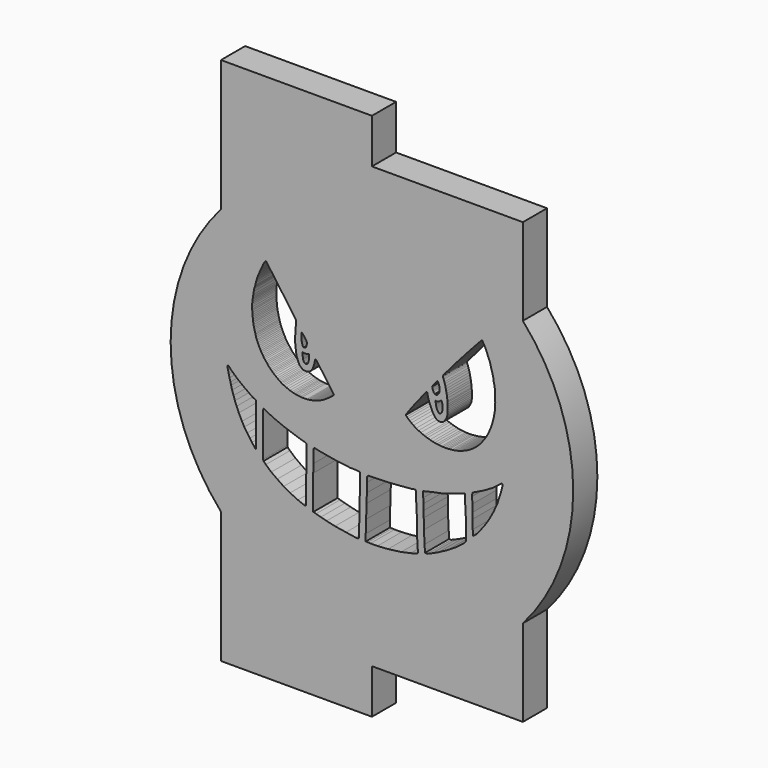
from build123d import *

# Parameters (mm, degrees)
F1_DEPTH = 2.1
F3_DEPTH = 25
F5_DEPTH = 25
F7_DEPTH = 25


with BuildPart() as f1:
    # F0 (on Front) → F1 (new body)
    with BuildSketch(Plane.XZ):
        with BuildLine():
            Line((-10.5, 18.4), (-10.5, 9.26013))
            ThreePointArc((-10.5, 9.26013), (-14, 0), (-10.5, -9.26013))
            Line((-10.5, -9.26013), (-10.5, -18.4))
            Line((-10.5, -18.4), (0, -18.4))
            Line((0, -18.4), (0, -15.3))
            Line((0, -15.3), (10.5, -15.3))
            Line((10.5, -15.3), (10.5, -9.26013))
            ThreePointArc((10.5, -9.26013), (14, 0), (10.5, 9.26013))
            Line((10.5, 9.26013), (10.5, 15.3))
            Line((10.5, 15.3), (0, 15.3))
            Line((0, 15.3), (0, 18.4))
            Line((0, 18.4), (-10.5, 18.4))
        make_face()
        with BuildLine():
            Line((-10.5, 18.4), (-10.5, 9.26013))
            ThreePointArc((-10.5, 9.26013), (-14, 0), (-10.5, -9.26013))
            Line((-10.5, -9.26013), (-10.5, -18.4))
            Line((-10.5, -18.4), (0, -18.4))
            Line((0, -18.4), (0, -15.3))
            Line((0, -15.3), (10.5, -15.3))
            Line((10.5, -15.3), (10.5, -9.26013))
            ThreePointArc((10.5, -9.26013), (14, 0), (10.5, 9.26013))
            Line((10.5, 9.26013), (10.5, 15.3))
            Line((10.5, 15.3), (0, 15.3))
            Line((0, 15.3), (0, 18.4))
            Line((0, 18.4), (-10.5, 18.4))
        make_face()
    extrude(amount=F1_DEPTH)

    # F2 (on Front) → F3 (cut)
    with BuildSketch(Plane.XZ):
        Polygon((-7.075218, 6.70665), (-7.313711, 7.040135), (-7.324723, 7.057937), (-7.339589, 7.069372), (-7.353541, 7.084718), (-7.366258, 7.096204), (-7.378652, 7.100064), (-7.394696, 7.100064), (-7.406554, 7.093089), (-7.424545, 7.072212), (-7.449802, 7.039377), (-7.49613, 6.969279), (-7.523741, 6.921493), (-7.565606, 6.849039), (-7.592798, 6.776404), (-7.646277, 6.650064), (-7.698825, 6.543424), (-7.742072, 6.452045), (-7.765789, 6.403915), (-7.799759, 6.33347), (-7.831358, 6.249059), (-7.883785, 6.139934), (-7.930355, 6.015533), (-7.972055, 5.904145), (-8.002484, 5.806453), (-8.037133, 5.695209), (-8.078288, 5.543144), (-8.109894, 5.396076), (-8.145917, 5.280422), (-8.186407, 5.150427), (-8.219193, 4.971157), (-8.249187, 4.768869), (-8.270811, 4.634244), (-8.287552, 4.531007), (-8.302201, 4.436141), (-8.313362, 4.332207), (-8.325917, 4.209439), (-8.325917, 4.117363), (-8.325219, 3.989712), (-8.323823, 3.861364), (-8.323823, 3.765103), (-8.316151, 3.645125), (-8.308057, 3.521007), (-8.297317, 3.420516), (-8.287551, 3.329137), (-8.277785, 3.229389), (-8.264531, 3.126152), (-8.252673, 3.035471), (-8.234521, 2.920386), (-8.212215, 2.830393), (-8.191987, 2.74878), (-8.17106, 2.653914), (-8.144554, 2.560443), (-8.117349, 2.462787), (-8.100607, 2.383267), (-8.076891, 2.294679), (-8.047594, 2.194232), (-8.013816, 2.089157), (-7.982722, 2.035192), (-7.94645, 1.938234), (-7.907388, 1.849645), (-7.863442, 1.761057), (-7.822287, 1.680142), (-7.776947, 1.593646), (-7.731606, 1.508546), (-7.693241, 1.430421), (-7.646506, 1.348111), (-7.592097, 1.268591), (-7.543967, 1.198139), (-7.496534, 1.125594), (-7.438637, 1.057235), (-7.369128, 0.975546), (-7.318085, 0.904086), (-7.267042, 0.832625), (-7.209454, 0.761203), (-7.153954, 0.705059), (-7.093256, 0.643654), (-7.019414, 0.568953), (-6.959425, 0.508267), (-6.905016, 0.458044), (-6.845027, 0.400147), (-6.768297, 0.333881), (-6.667169, 0.263548), (-6.584006, 0.199576), (-6.507416, 0.140661), (-6.434871, 0.084857), (-6.360931, 0.033937), (-6.305825, 0), (-6.244441, -0.035818), (-6.160736, -0.078368), (-6.086797, -0.115338), (-5.968911, -0.166259), (-5.83289, -0.21718), (-5.702557, -0.269988), (-5.572008, -0.310651), (-5.486908, -0.337157), (-5.39274, -0.360874), (-5.3188, -0.37343), (-5.237187, -0.388776), (-5.133253, -0.404819), (-4.996534, -0.419468), (-4.884927, -0.430628), (-4.7789, -0.430628), (-4.672873, -0.430628), (-4.589865, -0.430628), (-4.522203, -0.430628), (-4.425245, -0.418072), (-4.366651, -0.409004), (-4.303175, -0.400634), (-4.217376, -0.38459), (-4.144832, -0.369942), (-4.093213, -0.355991), (-4.03183, -0.33925), (-3.985094, -0.325299), (-3.926501, -0.307163), (-3.858839, -0.280656), (-3.792572, -0.25973), (-3.726305, -0.237408), (-3.63702, -0.207414), (-3.574078, -0.189007), (-3.527459, -0.162146), (-3.462633, -0.129289), (-3.385564, -0.090226), (-3.323822, -0.054652), (-3.25895, -0.018379), (-3.212686, 0.006694), (-3.152772, 0.04949), (-3.094509, 0.091107), (-3.044955, 0.126502), (-2.992346, 0.16408), (-2.937137, 0.203515), (-2.886461, 0.239712), (-2.832354, 0.27836), (-2.793688, 0.305979), (-2.749742, 0.344344), (-2.701612, 0.386894), (-2.662549, 0.426654), (-2.643329, 0.449551), (-2.634289, 0.456008), (-2.638059, 0.461287), (-2.647627, 0.474682), (-2.664029, 0.497644), (-2.685097, 0.527139), (-2.715496, 0.569698), (-2.757538, 0.628556), (-2.8017, 0.690383), (-2.840489, 0.744688), (-2.887667, 0.810738), (-2.937768, 0.880879), (-2.992346, 0.957288), (-3.049894, 1.037854), (-3.099995, 1.107995), (-3.147974, 1.175167), (-3.199395, 1.247155), (-3.241153, 1.305617), (-3.283147, 1.364409), (-3.337961, 1.441148), (-3.385564, 1.507792), (-3.442782, 1.587897), (-3.494626, 1.660479), (-3.54468, 1.730554), (-3.592377, 1.797329), (-3.637717, 1.860806), (-3.678872, 1.92219), (-3.721423, 1.981481), (-3.763275, 2.04147), (-3.808616, 2.100761), (-3.860234, 2.16354), (-3.904179, 2.217949), (-3.91534, 2.227715), (-3.926501, 2.227715), (-3.932081, 2.217949), (-3.943939, 2.175399), (-3.962075, 2.108434), (-3.976724, 2.054026), (-3.989977, 1.992642), (-4.001319, 1.937627), (-4.024157, 1.865689), (-4.052059, 1.777798), (-4.075775, 1.703858), (-4.097399, 1.643172), (-4.123899, 1.575076), (-4.151808, 1.528775), (-4.182687, 1.477545), (-4.216495, 1.439726), (-4.255907, 1.395638), (-4.294363, 1.368136), (-4.333871, 1.339881), (-4.373653, 1.311431), (-4.424743, 1.292388), (-4.476648, 1.273042), (-4.515229, 1.265158), (-4.566847, 1.265158), (-4.621049, 1.265158), (-4.671633, 1.27239), (-4.715578, 1.278673), (-4.752394, 1.283936), (-4.794944, 1.301375), (-4.834704, 1.323696), (-4.877254, 1.352296), (-4.913527, 1.376012), (-4.959565, 1.417167), (-5.002115, 1.463903), (-5.04327, 1.509941), (-5.074659, 1.568535), (-5.110234, 1.643172), (-5.138834, 1.719902), (-5.177896, 1.820348), (-5.219051, 1.936141), (-5.246953, 2.037285), (-5.272064, 2.160182), (-5.286016, 2.260499), (-5.289687, 2.343966), (-5.301361, 2.42791), (-5.31601, 2.533239), (-5.321765, 2.620432), (-5.331199, 2.70902), (-5.339772, 2.797608), (-5.339772, 2.870851), (-5.339772, 2.927352), (-5.339772, 2.997804), (-5.339772, 3.061978), (-5.339772, 3.133825), (-5.339772, 3.195515), (-5.331199, 3.255474), (-5.321765, 3.321465), (-5.321765, 3.394707), (-5.321765, 3.458183), (-5.321765, 3.514909), (-5.311824, 3.584439), (-5.311824, 3.64652), (-5.301361, 3.75464), (-5.291189, 3.825789), (-5.286016, 3.896241), (-5.272064, 3.99041), (-5.272064, 4.060165), (-5.272064, 4.120153), (-5.272064, 4.160611), (-5.278548, 4.179298), (-5.291189, 4.196975), (-5.312699, 4.227051), (-5.354017, 4.284826), (-5.421847, 4.379674), (-5.468029, 4.444249), (-5.536047, 4.539359), (-5.605952, 4.637106), (-5.678733, 4.738876), (-5.75839, 4.865334), (-5.83655, 4.974625), (-5.914898, 5.084178), (-5.98466, 5.181727), (-6.070745, 5.3021), (-6.170321, 5.441335), (-6.24381, 5.544095), (-6.31296, 5.640788), (-6.38928, 5.747506), (-6.471403, 5.862338), (-6.575645, 6.008099), (-6.645788, 6.106179), (-6.71456, 6.202344), (-6.795974, 6.316185), (-6.951396, 6.533511), align=None)
        Polygon((4.445979, 2.395347), (4.415475, 2.404848), (4.413715, 2.39429), (4.416648, 2.374933), (4.4231, 2.345019), (4.429552, 2.306305), (4.438937, 2.265833), (4.445979, 2.218907), (4.451255, 2.181368), (4.454775, 2.153213), (4.461814, 2.114499), (4.471785, 2.078132), (4.48293, 2.030621), (4.497594, 1.981936), (4.513431, 1.938531), (4.526335, 1.909789), (4.536894, 1.884567), (4.549798, 1.861104), (4.562116, 1.832363), (4.577367, 1.807141), (4.59379, 1.778985), (4.606108, 1.758456), (4.63133, 1.729714), (4.657139, 1.712704), (4.683534, 1.703319), (4.698785, 1.702732), (4.72342, 1.702732), (4.747469, 1.702732), (4.755095, 1.702732), (4.787356, 1.724435), (4.806712, 1.742619), (4.826069, 1.767254), (4.842493, 1.79189), (4.85481, 1.817699), (4.870648, 1.854652), (4.878273, 1.876942), (4.891178, 1.916241), (4.901149, 1.952021), (4.908188, 1.987802), (4.909948, 2.01889), (4.911121, 2.046458), (4.911707, 2.078719), (4.912294, 2.113326), (4.912294, 2.147347), (4.912881, 2.176089), (4.910534, 2.210109), (4.909361, 2.249409), (4.905256, 2.291055), (4.899976, 2.333874), (4.889418, 2.37728), (4.877687, 2.431243), (4.863023, 2.479342), (4.848359, 2.518641), (4.836627, 2.54445), (4.823723, 2.550902), (4.809059, 2.537411), (4.791462, 2.520988), (4.762134, 2.492832), (4.739258, 2.475236), (4.705824, 2.451187), (4.68764, 2.434176), (4.660659, 2.413647), (4.632504, 2.394876), (4.596723, 2.386665), (4.567982, 2.386078), (4.542173, 2.383732), (4.505219, 2.385492), (4.477651, 2.386665), align=None)
        Polygon((-4.803332, 3.466671), (-4.873087, 3.549679), (-4.884946, 3.551772), (-4.891921, 3.549679), (-4.900292, 3.543401), (-4.900292, 3.491783), (-4.900292, 3.424819), (-4.900292, 3.342508), (-4.899594, 3.257408), (-4.897501, 3.159752), (-4.891921, 3.085812), (-4.884248, 3.019545), (-4.87239, 2.953278), (-4.859136, 2.893987), (-4.841697, 2.834696), (-4.825654, 2.783775), (-4.805425, 2.737039), (-4.777524, 2.700767), (-4.743344, 2.67426), (-4.722417, 2.670075), (-4.695911, 2.670075), (-4.670102, 2.677748), (-4.625459, 2.701465), (-4.589884, 2.740527), (-4.558494, 2.806794), (-4.538266, 2.875153), (-4.527105, 2.945605), (-4.529895, 3.045354), (-4.535475, 3.119294), (-4.566167, 3.160449), (-4.6136, 3.226716), (-4.674287, 3.309026), (-4.736368, 3.392034), align=None)
        Polygon((4.239582, 3.258422), (4.19383, 3.183342), (4.197349, 3.154014), (4.207908, 3.10005), (4.223158, 3.042567), (4.243101, 2.98743), (4.263044, 2.93464), (4.2912, 2.880676), (4.336951, 2.820846), (4.378011, 2.785653), (4.429552, 2.772748), (4.484765, 2.769229), (4.537556, 2.791518), (4.597385, 2.836097), (4.638445, 2.892407), (4.678331, 2.958102), (4.698274, 3.051952), (4.710006, 3.14111), (4.708203, 3.243898), (4.691235, 3.356965), (4.664253, 3.439083), (4.633752, 3.515337), (4.605597, 3.571647), (4.576269, 3.622091), (4.558584, 3.648674), (4.549287, 3.640861), (4.514094, 3.600975), (4.450744, 3.523549), (4.392088, 3.454334), (4.340471, 3.394505), (4.285334, 3.322944), align=None)
        Polygon((2.414877, 0.941916), (2.355152, 0.860623), (2.348781, 0.855787), (2.349954, 0.846989), (2.360512, 0.836431), (2.378696, 0.816487), (2.438525, 0.755485), (2.520644, 0.675126), (2.630331, 0.579516), (2.744711, 0.486253), (2.886659, 0.384191), (3.074359, 0.267465), (3.23801, 0.181826), (3.38993, 0.1044), (3.618103, 0.017002), (3.713713, -0.022297), (3.852142, -0.067463), (4.037495, -0.1226), (4.207598, -0.169525), (4.355999, -0.200026), (4.51965, -0.226421), (4.639895, -0.239912), (4.847538, -0.258682), (4.940802, -0.265721), (5.042277, -0.273933), (5.163109, -0.274519), (5.279248, -0.268654), (5.38483, -0.259855), (5.575463, -0.239326), (5.699228, -0.222902), (5.811261, -0.205892), (5.915669, -0.17891), (6.003654, -0.163659), (6.090465, -0.140783), (6.1937, -0.104416), (6.317465, -0.061597), (6.431844, -0.012326), (6.506338, 0.017002), (6.596082, 0.052783), (6.695798, 0.105573), (6.803725, 0.168922), (6.906374, 0.227578), (6.981454, 0.282715), (7.057121, 0.336092), (7.152143, 0.403547), (7.202588, 0.447539), (7.26711, 0.499157), (7.349815, 0.578343), (7.430761, 0.654009), (7.49059, 0.715599), (7.548073, 0.781294), (7.594998, 0.831738), (7.664799, 0.922069), (7.736946, 1.019438), (7.776246, 1.075748), (7.84898, 1.175464), (7.912328, 1.264035), (7.961013, 1.340874), (8.017323, 1.442936), (8.044891, 1.490448), (8.092403, 1.579606), (8.12701, 1.661724), (8.200331, 1.823616), (8.232005, 1.897523), (8.267199, 1.981401), (8.311777, 2.093435), (8.342865, 2.193737), (8.375713, 2.299318), (8.405627, 2.406073), (8.42909, 2.505788), (8.467803, 2.652429), (8.491266, 2.753905), (8.508276, 2.867111), (8.528806, 2.966827), (8.544057, 3.075341), (8.559307, 3.218462), (8.570451, 3.304101), (8.570451, 3.427865), (8.573971, 3.544005), (8.578665, 3.651932), (8.576319, 3.726426), (8.574558, 3.844911), (8.568774, 3.969841), (8.566346, 4.108278), (8.566346, 4.199195), (8.561654, 4.311815), (8.555431, 4.427256), (8.537018, 4.54996), (8.525873, 4.619174), (8.501237, 4.735901), (8.462524, 4.905417), (8.45138, 5.023903), (8.434369, 5.141802), (8.393896, 5.297828), (8.356943, 5.438603), (8.305325, 5.611052), (8.272477, 5.734231), (8.247842, 5.84861), (8.216167, 5.96651), (8.183906, 6.044522), (8.129355, 6.165355), (8.083018, 6.279734), (8.028037, 6.431131), (7.963946, 6.58768), (7.894144, 6.73608), (7.829036, 6.86923), (7.739878, 7.018217), (7.67125, 7.134357), (7.662452, 7.146088), (7.653653, 7.146088), (7.642129, 7.136345), (7.620219, 7.117933), (7.576227, 7.075114), (7.501147, 6.995928), (7.430759, 6.9273), (7.301716, 6.785352), (7.159768, 6.629913), (7.048907, 6.505562), (6.93922, 6.387075), (6.8659, 6.307303), (6.776155, 6.209347), (6.67644, 6.095554), (6.604292, 6.0193), (6.533319, 5.943047), (6.452959, 5.85213), (6.358523, 5.747722), (6.30104, 5.677921), (6.270539, 5.642141), (6.198392, 5.561782), (6.112167, 5.468518), (6.013624, 5.357658), (5.929746, 5.263221), (5.834722, 5.153534), (5.77372, 5.07904), (5.691015, 4.984603), (5.615348, 4.898965), (5.566077, 4.835616), (5.484545, 4.734141), (5.393041, 4.633252), (5.317375, 4.54996), (5.232323, 4.452591), (5.181879, 4.395694), (5.121463, 4.324134), (5.054594, 4.243188), (4.998871, 4.175147), (4.97013, 4.13702), (4.950773, 4.107692), (4.937282, 4.077191), (4.932954, 4.045219), (4.938455, 4.008563), (4.963677, 3.946387), (4.992419, 3.884798), (5.038171, 3.742263), (5.071019, 3.644307), (5.107972, 3.505879), (5.141406, 3.349853), (5.168975, 3.21553), (5.197425, 3.070781), (5.215313, 2.951577), (5.235257, 2.814908), (5.248747, 2.618409), (5.257546, 2.557407), (5.266344, 2.44596), (5.265779, 2.321002), (5.267828, 2.204229), (5.269864, 2.088156), (5.269864, 1.976123), (5.263998, 1.878167), (5.246988, 1.767306), (5.216486, 1.659965), (5.175427, 1.564356), (5.117944, 1.457601), (5.059287, 1.374896), (5.005324, 1.315653), (4.946667, 1.264622), (4.866895, 1.221803), (4.774218, 1.208899), (4.690926, 1.205379), (4.610567, 1.223563), (4.539006, 1.252304), (4.478003, 1.298056), (4.400679, 1.371836), (4.354239, 1.4271), (4.299688, 1.501594), (4.23458, 1.603655), (4.176921, 1.717511), (4.118936, 1.859147), (4.055678, 2.013663), (3.954476, 2.260861), (3.869693, 2.578377), (3.851615, 2.69885), (3.831706, 2.713782), (3.80682, 2.713782), (3.776957, 2.707146), (3.692346, 2.617557), (3.572894, 2.464924), (3.402012, 2.24593), (3.23113, 2.033571), (3.076838, 1.836144), (2.952409, 1.676876), (2.816367, 1.492721), (2.658758, 1.286999), (2.529352, 1.112799), align=None)
    extrude(amount=F3_DEPTH, mode=Mode.SUBTRACT)

    # F4 (on Front) → F5 (cut)
    with BuildSketch(Plane.XZ):
        Polygon((-4.805977, 2.355902), (-4.840854, 2.373689), (-4.84564, 2.369526), (-4.842935, 2.355902), (-4.842935, 2.326958), (-4.831786, 2.270801), (-4.827252, 2.208371), (-4.822718, 2.156055), (-4.818533, 2.128851), (-4.809116, 2.081418), (-4.800397, 2.038519), (-4.792375, 1.991783), (-4.786446, 1.96144), (-4.786446, 1.941211), (-4.786446, 1.922726), (-4.778075, 1.888895), (-4.760985, 1.849833), (-4.747383, 1.81949), (-4.733781, 1.794029), (-4.719133, 1.771359), (-4.695067, 1.747991), (-4.680419, 1.734738), (-4.654261, 1.717299), (-4.635078, 1.708929), (-4.611013, 1.706139), (-4.585204, 1.706139), (-4.563231, 1.706139), (-4.549281, 1.71137), (-4.519286, 1.726368), (-4.502545, 1.744155), (-4.472899, 1.776242), (-4.453019, 1.815305), (-4.431047, 1.858552), (-4.419537, 1.89901), (-4.398611, 1.958999), (-4.391635, 2.007478), (-4.380475, 2.156055), (-4.380475, 2.212905), (-4.384355, 2.283033), (-4.386752, 2.378921), (-4.400703, 2.378572), (-4.421978, 2.37334), (-4.451624, 2.363226), (-4.502893, 2.350321), (-4.544746, 2.340904), (-4.576135, 2.338114), (-4.612059, 2.337417), (-4.647983, 2.336719), (-4.682511, 2.336719), (-4.728549, 2.33951), (-4.772146, 2.345787), align=None)
    extrude(amount=F5_DEPTH, mode=Mode.SUBTRACT)

    # F6 (on Front) → F7 (cut)
    with BuildSketch(Plane.XZ):
        Polygon((-9.758699, -0.374654), (-9.993074, -0.137489), (-10.017208, -0.143651), (-10.036311, -0.181809), (-10.036311, -0.238216), (-10.036311, -0.319194), (-10.000437, -0.44834), (-9.956489, -0.642961), (-9.905105, -0.870513), (-9.842138, -1.097194), (-9.798213, -1.291713), (-9.723555, -1.560479), (-9.624768, -1.853448), (-9.529903, -2.149207), (-9.409925, -2.442176), (-9.259256, -2.804899), (-9.033251, -3.248538), (-8.874211, -3.541507), (-8.676108, -3.845636), (-8.497537, -4.107913), (-8.346867, -4.319966), (-8.221309, -4.473426), (-8.104121, -4.612935), (-8.05111, -4.651998), (-8.05111, -4.573873), (-8.05111, -4.364609), (-8.05111, -4.001886), (-8.05111, -3.672645), (-8.05111, -3.111819), (-8.05111, -2.514721), (-8.05111, -2.009699), (-8.05111, -1.736261), (-8.070641, -1.649765), (-8.140395, -1.610703), (-8.302226, -1.524207), (-8.623096, -1.295413), (-8.955128, -1.061038), (-9.376445, -0.726216), align=None)
        Polygon((-7.357677, -2.061721), (-7.519459, -1.963073), (-7.56681, -2.077504), (-7.56681, -2.333988), (-7.56681, -3.300736), (-7.56681, -3.987324), (-7.56681, -4.535805), (-7.56681, -4.973801), (-7.56681, -5.10007), (-7.540805, -5.193687), (-7.378621, -5.357801), (-6.998599, -5.691956), (-6.584279, -5.987899), (-6.138391, -6.287789), (-5.688557, -6.540326), (-5.147968, -6.796811), (-4.784944, -6.946755), (-4.646838, -6.982268), (-4.575811, -6.950701), (-4.575811, -6.607407), (-4.575811, -5.778766), (-4.575811, -5.226339), (-4.544244, -4.362185), (-4.544244, -3.782137), (-4.544244, -3.257331), (-4.544244, -3.162629), (-4.646838, -3.095549), (-4.940711, -3.019981), (-5.546505, -2.819335), (-6.138391, -2.610202), (-6.655305, -2.401069), (-7.077517, -2.203773), align=None)
        Polygon((-2.906859, -3.448539), (-3.721591, -3.30345), (-3.858965, -3.263188), (-3.984763, -3.243149), (-4.026616, -3.271051), (-4.064682, -3.329645), (-4.064682, -3.396609), (-4.064682, -3.767703), (-4.064682, -4.214506), (-4.083053, -4.811231), (-4.083053, -5.536677), (-4.083053, -5.916141), (-4.083053, -6.510449), (-4.083053, -7.040583), (-4.083053, -7.186725), (-4.026616, -7.188463), (-3.892687, -7.235896), (-3.555076, -7.327972), (-3.15608, -7.433998), (-2.570522, -7.565504), (-1.805254, -7.687405), (-1.147789, -7.792134), (-0.926325, -7.798952), (-0.908701, -7.699986), (-0.892521, -7.174418), (-0.869773, -6.435544), (-0.851916, -5.855558), (-0.851916, -5.332345), (-0.829307, -4.597968), (-0.829307, -3.673131), (-1.070971, -3.655534), (-1.28448, -3.643497), (-1.498375, -3.643497), (-1.67918, -3.62153), (-2.276279, -3.548986), align=None)
        Polygon((1.210914, -3.673131), (0.338868, -3.702141), (-0.20251, -3.715899), (-0.264856, -3.713979), (-0.321658, -3.775966), (-0.332824, -3.867869), (-0.332824, -4.147395), (-0.352986, -4.80228), (-0.373178, -5.458137), (-0.40327, -6.435544), (-0.431002, -7.336323), (-0.431002, -7.807628), (-0.279865, -7.812281), (-0.103074, -7.817724), (0.382273, -7.817724), (1.120158, -7.766427), (2.031663, -7.648049), (2.694575, -7.505997), (3.140463, -7.391565), (3.19176, -7.324485), (3.19176, -7.150865), (3.152301, -6.507682), (3.152301, -5.769797), (3.112842, -4.846455), (3.069437, -3.998084), (3.069437, -3.575872), (3.021977, -3.516257), (2.907654, -3.512737), (2.734035, -3.548986), (1.873826, -3.62153), align=None)
        Polygon((4.296466, -3.252497), (3.571019, -3.419908), (3.561063, -3.454697), (3.563958, -3.511287), (3.569944, -3.830292), (3.58783, -4.179873), (3.59577, -4.603061), (3.604049, -5.044244), (3.617777, -5.775852), (3.662528, -6.650535), (3.688864, -7.165289), (3.838876, -7.169908), (4.196019, -7.019238), (4.614546, -6.829506), (5.256287, -6.483524), (5.914769, -6.070578), (6.428162, -5.674372), (6.553854, -5.500375), (6.53963, -5.222363), (6.53963, -4.255255), (6.476924, -3.029643), (6.456064, -2.621917), (6.188207, -2.722363), (5.669233, -2.884193), (4.887983, -3.13531), align=None)
        Polygon((7.795251, -2.005625), (7.081859, -2.354026), (6.998907, -2.407115), (6.97904, -2.473478), (6.966578, -2.649633), (6.989392, -3.095549), (6.97904, -3.62153), (6.999744, -4.026208), (7.011639, -4.660133), (7.031291, -5.044244), (7.138384, -4.961597), (7.287582, -4.846455), (7.516531, -4.560563), (7.861613, -4.109301), (8.143651, -3.673131), (8.435644, -3.147052), (8.707728, -2.55643), (8.973177, -1.740177), (9.081332, -1.325483), (9.075589, -1.213233), (9.036374, -1.16242), (8.84675, -1.30876), (8.412417, -1.643952), align=None)
    extrude(amount=F7_DEPTH, mode=Mode.SUBTRACT)


solid = f1.part
